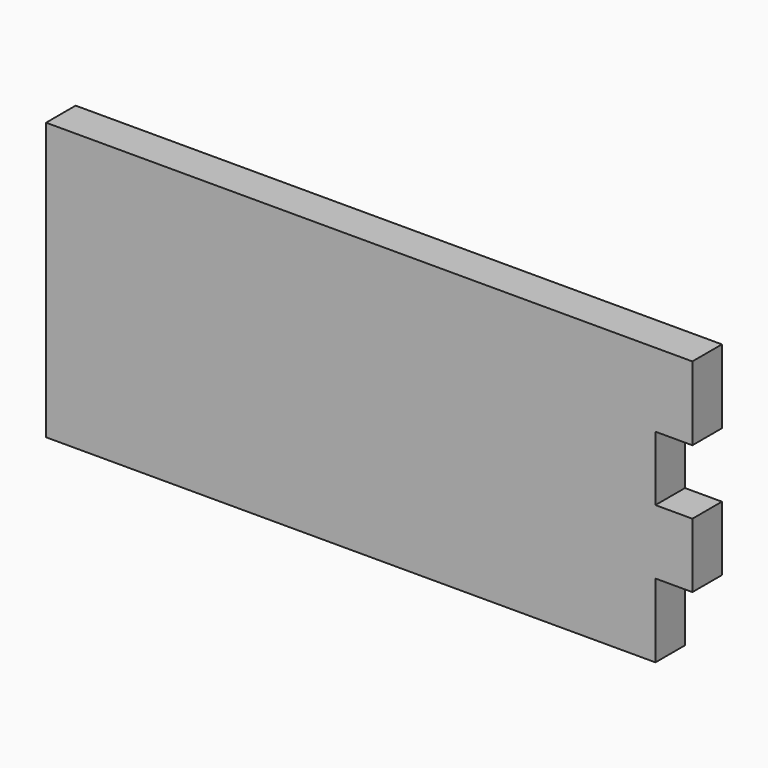
from build123d import *

# Parameters (mm, degrees)
F1_DEPTH = 20


with BuildPart() as f1:
    # F0 (on Front) → F1 (new body)
    with BuildSketch(Plane.XZ):
        Polygon((-350, 0), (-20, 0), (-20, 40), (0, 40), (0, 75), (-20, 75), (-20, 110), (0, 110), (0, 150), (-350, 150), align=None)
        Polygon((-350, 0), (-20, 0), (-20, 40), (0, 40), (0, 75), (-20, 75), (-20, 110), (0, 110), (0, 150), (-350, 150), align=None)
    extrude(amount=F1_DEPTH)


solid = f1.part
